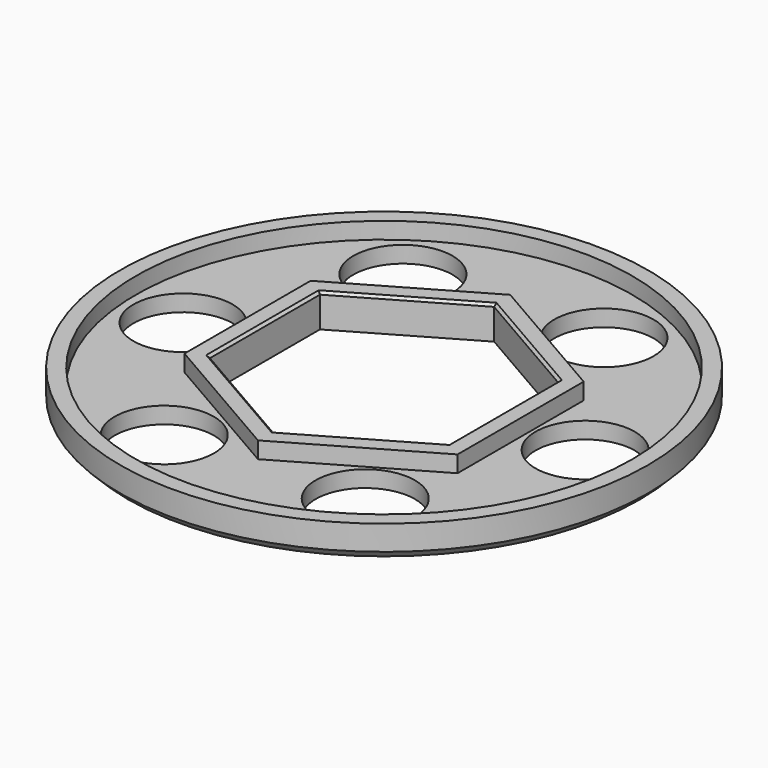
from build123d import *

# Parameters (mm, degrees)
SKETCH_R        = 31.9
SKETCH_R_2      = 6
PAD_DEPTH       = 2
SKETCH001_R     = 31.9
SKETCH001_R_2   = 30
PAD001_DEPTH    = 2
PAD002_DEPTH    = 2
CHAMFER_SIZE    = 1
CHAMFER001_SIZE = 0.3


with BuildPart() as part:
    # Sketch → Pad (new body)
    with BuildSketch(Plane.XY):
        Circle(SKETCH_R)
        with Locations((9.999037, 20.71278)):
            Circle(SKETCH_R_2, mode=Mode.SUBTRACT)
        with Locations((22.937312, 1.69697)):
            Circle(SKETCH_R_2, mode=Mode.SUBTRACT)
        with Locations((12.938275, -19.01581)):
            Circle(SKETCH_R_2, mode=Mode.SUBTRACT)
        with Locations((-9.999037, -20.71278)):
            Circle(SKETCH_R_2, mode=Mode.SUBTRACT)
        with Locations((-22.937312, -1.69697)):
            Circle(SKETCH_R_2, mode=Mode.SUBTRACT)
        with Locations((-12.938275, 19.01581)):
            Circle(SKETCH_R_2, mode=Mode.SUBTRACT)
        Polygon((0, 16.627688), (-14.4, 8.313844), (-14.4, -8.313844), (0, -16.627688), (14.4, -8.313844), (14.4, 8.313844), align=None, mode=Mode.SUBTRACT)
    extrude(amount=PAD_DEPTH)

    # Sketch001 (on Face15 of Pad) → Pad001 (join)
    with BuildSketch(Plane.XY.offset(2)):
        Circle(SKETCH001_R)
        Circle(SKETCH001_R_2, mode=Mode.SUBTRACT)
    extrude(amount=PAD001_DEPTH)

    # Sketch002 (on Face17 of Pad001) → Pad002 (join)
    with BuildSketch(Plane.XY.offset(2)):
        Polygon((0, 19.052559), (-16.5, 9.526279), (-16.5, -9.526279), (0, -19.052559), (16.5, -9.526279), (16.5, 9.526279), align=None)
        Polygon((0, 16.627688), (-14.4, 8.313844), (-14.4, -8.313844), (0, -16.627688), (14.4, -8.313844), (14.4, 8.313844), align=None, mode=Mode.SUBTRACT)
    extrude(amount=PAD002_DEPTH)

    # Chamfer
    chamfer_edges = [part.edges().sort_by_distance(p)[0] for p in [
        (-31.9, 0, 0),
    ]]
    chamfer(chamfer_edges, length=CHAMFER_SIZE)

    # Chamfer001
    chamfer001_edges = [part.edges().sort_by_distance(p)[0] for p in [
        (-7.2, -12.470766, 4),
        (-14.4, 0, 4),
        (-7.2, 12.470766, 4),
        (7.2, 12.470766, 4),
        (14.4, 0, 4),
        (7.2, -12.470766, 4),
    ]]
    chamfer(chamfer001_edges, length=CHAMFER001_SIZE)


solid = part.part
